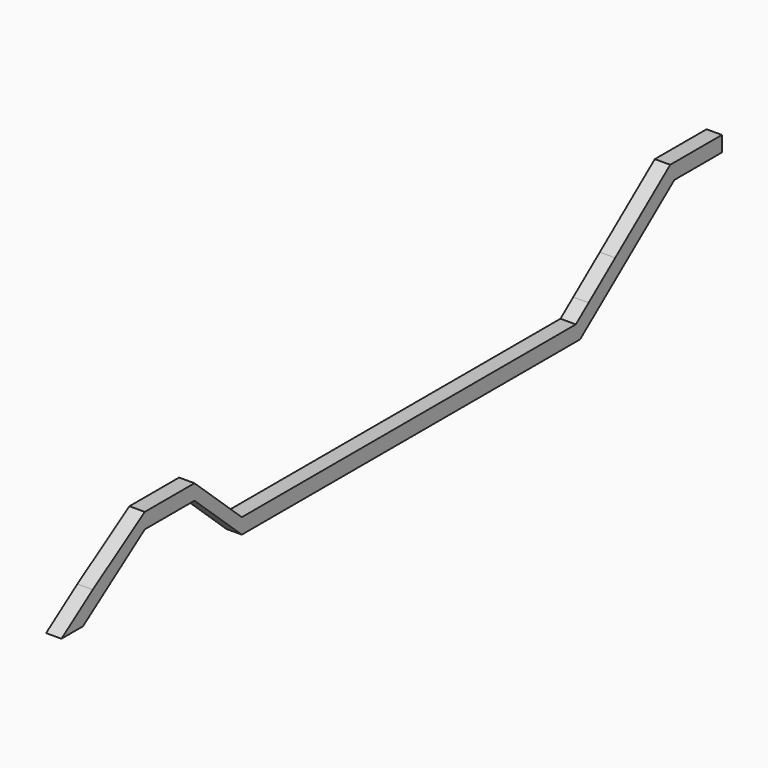
from build123d import *

# Parameters (mm, degrees)
F1_DEPTH = 20


with BuildPart() as f1:
    # F0 (on Right) → F1 (new body)
    with BuildSketch(Plane.YZ):
        Polygon((-413.016528, 59.649921), (-351.966997, 59.649921), (-373.890857, 79.649921), (-432.775319, 79.649921), (-432.775319, 59.649921), align=None)
        Polygon((-373.890857, 79.649921), (-351.966997, 59.649921), (-330.043137, 59.649921), (-351.966997, 79.649921), align=None)
        Polygon((-275, -10.563077), (-275, 9.436923), (-302.521569, 34.543422), (-330.043137, 59.649921), (-351.966997, 59.649921), align=None)
        Polygon((268.086687, 9.436923), (-275, 9.436923), (-275, -10.563077), (275, -10.563077), (275, 9.436923), align=None)
        Polygon((332.04056, 59.649921), (288.892531, 25.772505), (301.243414, 10.041781), (428.2428, 109.754585), (453.853816, 129.862919), (421.467468, 129.862919), align=None)
        Polygon((453.853816, 129.862919), (428.2428, 109.754585), (505.587697, 109.754585), (505.587697, 129.862919), align=None)
        Polygon((288.892531, 25.772505), (268.086687, 9.436923), (275, 9.436923), (275, -10.563077), (301.243414, 10.041781), align=None)
        Polygon((-505.93295, 8.557816), (-432.775319, 59.649921), (-432.775319, 79.649921), (-517.384404, 24.954895), align=None)
        Polygon((-533.311725, -10.563077), (-505.93295, 8.557816), (-517.384404, 24.954895), (-568.241786, -10.563077), align=None)
    extrude(amount=F1_DEPTH)


solid = f1.part
